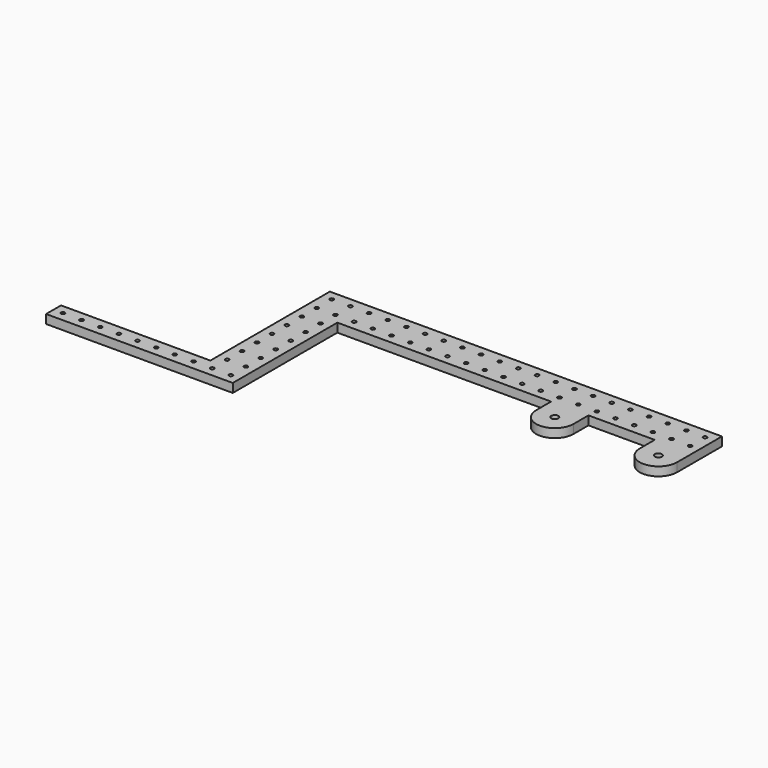
from build123d import *

# Parameters (mm, degrees)
F0_R     = 2.5527
F0_R_2   = 4.7625
F1_DEPTH = 12


with BuildPart() as f1:
    # F0 (on Top) → F1 (new body)
    with BuildSketch(Plane.XY):
        with BuildLine():
            Line((274.091522, 50.8), (-259.308478, 50.8))
            Line((-259.308478, 50.8), (-259.308478, -152.4))
            Line((-259.308478, -152.4), (-462.508478, -152.4))
            Line((-462.508478, -152.4), (-462.508478, -177.8))
            Line((-462.508478, -177.8), (-208.508478, -177.8))
            Line((-208.508478, -177.8), (-208.508478, 0))
            Line((-208.508478, 0), (82.321522, 0))
            Line((82.321522, 0), (82.321522, -25.4))
            ThreePointArc((82.321522, -25.4), (107.721522, -50.8), (133.121522, -25.4))
            Line((133.121522, -25.4), (133.121522, 0))
            Line((133.121522, 0), (223.291522, 0))
            Line((223.291522, 0), (223.291522, -25.4))
            ThreePointArc((223.291522, -25.4), (248.691522, -50.8), (274.091522, -25.4))
            Line((274.091522, -25.4), (274.091522, 0))
            Line((274.091522, 0), (274.091522, 50.8))
        make_face()
        with Locations((-449.808478, -165.1)):
            Circle(F0_R, mode=Mode.SUBTRACT)
        with Locations((-424.408478, -165.1)):
            Circle(F0_R, mode=Mode.SUBTRACT)
        with Locations((-399.008478, -165.1)):
            Circle(F0_R, mode=Mode.SUBTRACT)
        with Locations((-373.608478, -165.1)):
            Circle(F0_R, mode=Mode.SUBTRACT)
        with Locations((-348.208478, -165.1)):
            Circle(F0_R, mode=Mode.SUBTRACT)
        with Locations((-322.808478, -165.1)):
            Circle(F0_R, mode=Mode.SUBTRACT)
        with Locations((-297.408478, -165.1)):
            Circle(F0_R, mode=Mode.SUBTRACT)
        with Locations((-272.008478, -165.1)):
            Circle(F0_R, mode=Mode.SUBTRACT)
        with Locations((-246.608478, -165.1)):
            Circle(F0_R, mode=Mode.SUBTRACT)
        with Locations((-221.208478, -165.1)):
            Circle(F0_R, mode=Mode.SUBTRACT)
        with Locations((-246.608478, -139.7)):
            Circle(F0_R, mode=Mode.SUBTRACT)
        with Locations((-221.208478, -139.7)):
            Circle(F0_R, mode=Mode.SUBTRACT)
        with Locations((-246.608478, -114.3)):
            Circle(F0_R, mode=Mode.SUBTRACT)
        with Locations((-221.208478, -114.3)):
            Circle(F0_R, mode=Mode.SUBTRACT)
        with Locations((-246.608478, -88.9)):
            Circle(F0_R, mode=Mode.SUBTRACT)
        with Locations((-221.208478, -88.9)):
            Circle(F0_R, mode=Mode.SUBTRACT)
        with Locations((-246.608478, -63.5)):
            Circle(F0_R, mode=Mode.SUBTRACT)
        with Locations((-221.208478, -63.5)):
            Circle(F0_R, mode=Mode.SUBTRACT)
        with Locations((-246.608478, -38.1)):
            Circle(F0_R, mode=Mode.SUBTRACT)
        with Locations((-221.208478, -38.1)):
            Circle(F0_R, mode=Mode.SUBTRACT)
        with Locations((-246.608478, -12.7)):
            Circle(F0_R, mode=Mode.SUBTRACT)
        with Locations((-221.208478, -12.7)):
            Circle(F0_R, mode=Mode.SUBTRACT)
        with Locations((-246.608478, 12.7)):
            Circle(F0_R, mode=Mode.SUBTRACT)
        with Locations((-221.208478, 12.7)):
            Circle(F0_R, mode=Mode.SUBTRACT)
        with Locations((-195.808478, 12.7)):
            Circle(F0_R, mode=Mode.SUBTRACT)
        with Locations((-170.408478, 12.7)):
            Circle(F0_R, mode=Mode.SUBTRACT)
        with Locations((-145.008478, 12.7)):
            Circle(F0_R, mode=Mode.SUBTRACT)
        with Locations((-119.608478, 12.7)):
            Circle(F0_R, mode=Mode.SUBTRACT)
        with Locations((-246.608478, 38.1)):
            Circle(F0_R, mode=Mode.SUBTRACT)
        with Locations((-221.208478, 38.1)):
            Circle(F0_R, mode=Mode.SUBTRACT)
        with Locations((-195.808478, 38.1)):
            Circle(F0_R, mode=Mode.SUBTRACT)
        with Locations((-170.408478, 38.1)):
            Circle(F0_R, mode=Mode.SUBTRACT)
        with Locations((-145.008478, 38.1)):
            Circle(F0_R, mode=Mode.SUBTRACT)
        with Locations((-119.608478, 38.1)):
            Circle(F0_R, mode=Mode.SUBTRACT)
        with Locations((107.721522, -25.4)):
            Circle(F0_R_2, mode=Mode.SUBTRACT)
        with Locations((248.691522, -25.4)):
            Circle(F0_R_2, mode=Mode.SUBTRACT)
        with Locations((-94.208478, 12.7)):
            Circle(F0_R, mode=Mode.SUBTRACT)
        with Locations((-68.808478, 12.7)):
            Circle(F0_R, mode=Mode.SUBTRACT)
        with Locations((-43.408478, 12.7)):
            Circle(F0_R, mode=Mode.SUBTRACT)
        with Locations((-18.008478, 12.7)):
            Circle(F0_R, mode=Mode.SUBTRACT)
        with Locations((7.391522, 12.7)):
            Circle(F0_R, mode=Mode.SUBTRACT)
        with Locations((32.791522, 12.7)):
            Circle(F0_R, mode=Mode.SUBTRACT)
        with Locations((58.191522, 12.7)):
            Circle(F0_R, mode=Mode.SUBTRACT)
        with Locations((83.591522, 12.7)):
            Circle(F0_R, mode=Mode.SUBTRACT)
        with Locations((-94.208478, 38.1)):
            Circle(F0_R, mode=Mode.SUBTRACT)
        with Locations((-68.808478, 38.1)):
            Circle(F0_R, mode=Mode.SUBTRACT)
        with Locations((-43.408478, 38.1)):
            Circle(F0_R, mode=Mode.SUBTRACT)
        with Locations((-18.008478, 38.1)):
            Circle(F0_R, mode=Mode.SUBTRACT)
        with Locations((7.391522, 38.1)):
            Circle(F0_R, mode=Mode.SUBTRACT)
        with Locations((32.791522, 38.1)):
            Circle(F0_R, mode=Mode.SUBTRACT)
        with Locations((58.191522, 38.1)):
            Circle(F0_R, mode=Mode.SUBTRACT)
        with Locations((83.591522, 38.1)):
            Circle(F0_R, mode=Mode.SUBTRACT)
        with Locations((108.991522, 12.7)):
            Circle(F0_R, mode=Mode.SUBTRACT)
        with Locations((134.391522, 12.7)):
            Circle(F0_R, mode=Mode.SUBTRACT)
        with Locations((159.791522, 12.7)):
            Circle(F0_R, mode=Mode.SUBTRACT)
        with Locations((185.191522, 12.7)):
            Circle(F0_R, mode=Mode.SUBTRACT)
        with Locations((210.591522, 12.7)):
            Circle(F0_R, mode=Mode.SUBTRACT)
        with Locations((235.991522, 12.7)):
            Circle(F0_R, mode=Mode.SUBTRACT)
        with Locations((261.391522, 12.7)):
            Circle(F0_R, mode=Mode.SUBTRACT)
        with Locations((108.991522, 38.1)):
            Circle(F0_R, mode=Mode.SUBTRACT)
        with Locations((134.391522, 38.1)):
            Circle(F0_R, mode=Mode.SUBTRACT)
        with Locations((159.791522, 38.1)):
            Circle(F0_R, mode=Mode.SUBTRACT)
        with Locations((185.191522, 38.1)):
            Circle(F0_R, mode=Mode.SUBTRACT)
        with Locations((210.591522, 38.1)):
            Circle(F0_R, mode=Mode.SUBTRACT)
        with Locations((235.991522, 38.1)):
            Circle(F0_R, mode=Mode.SUBTRACT)
        with Locations((261.391522, 38.1)):
            Circle(F0_R, mode=Mode.SUBTRACT)
    extrude(amount=F1_DEPTH)


solid = f1.part
